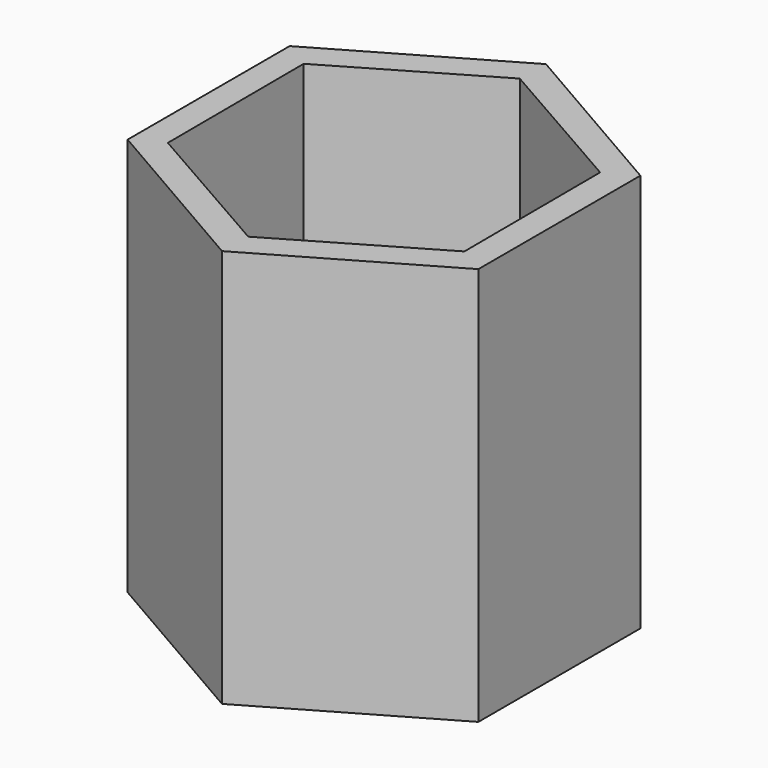
from build123d import *

# Parameters (mm, degrees)
F1_DEPTH = 1
F3_DEPTH = 1
F5_DEPTH = 25.0000003725


with BuildPart() as f1:
    # F0 (on Top) → F1 (new body)
    with BuildSketch(Plane.XY):
        Polygon((10.9985226281, 6.35), (0, 12.7), (-10.9985226281, 6.35), (-10.9985226281, -6.35), (0, -12.7), (10.9985226281, -6.35), align=None)
    extrude(amount=F1_DEPTH)

    # F2 (on Top) → F3 (cut)
    with BuildSketch(Plane.XY):
        Polygon((9.2440988936, 5.389793064), (-0.0456482678, 10.7005210089), (-9.2897471614, 5.310727945), (-9.2440988936, -5.389793064), (0.0456482678, -10.7005210089), (9.2897471614, -5.310727945), align=None)
    extrude(amount=F3_DEPTH, mode=Mode.SUBTRACT)

    # F5 (add): a face of the model
    f5_faces = [f1.faces().sort_by_distance(p)[0] for p in [
        (5.3312561058, 9.2340064434, 1),
    ]]
    extrude(f5_faces, amount=-F5_DEPTH)


solid = f1.part
